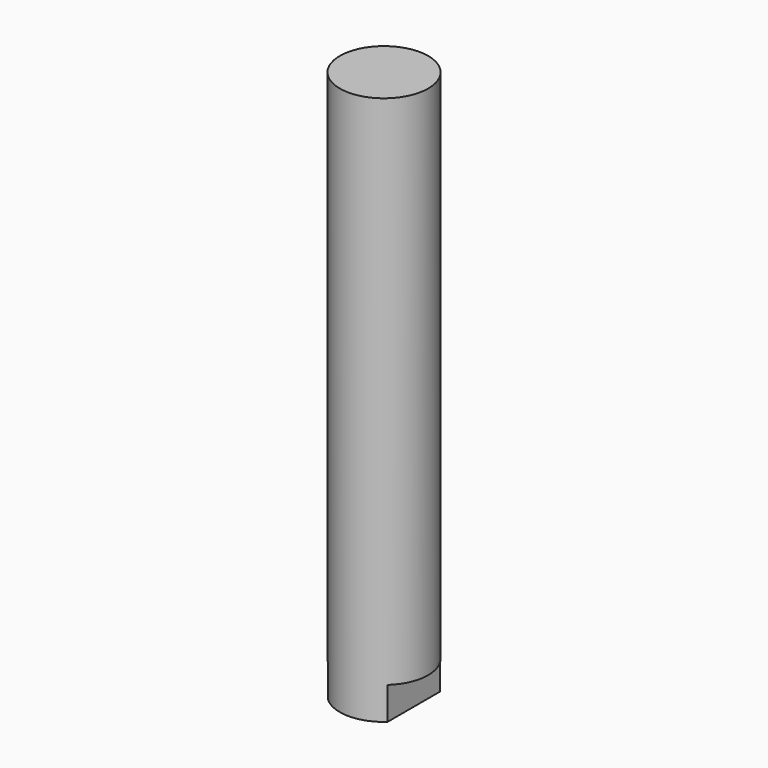
from build123d import *

# Parameters (mm, degrees)
F0_R     = 9.5
F1_DEPTH = 118
F2_W     = 9.514893
F2_H     = 14
F2_W_2   = 10.271802
F3_DEPTH = 12.5
F4_R     = 4.25
F5_DEPTH = 25


with BuildPart() as f1:
    # F0 (on Top) → F1 (new body)
    with BuildSketch(Plane.XY):
        Circle(F0_R)
    extrude(amount=F1_DEPTH)

    # F2 (on Front) → F3 (cut, symmetric)
    with BuildSketch(Plane.XZ):
        with Locations((-11.373281, 0)):
            Rectangle(F2_W, F2_H)
        with Locations((11.520066, 0)):
            Rectangle(F2_W_2, F2_H)
    extrude(amount=F3_DEPTH, both=True, mode=Mode.SUBTRACT)

    # F4 (on face) → F5 (cut)
    with BuildSketch(Plane(origin=(0, 0, 0), x_dir=(1, 0, 0), z_dir=(0, 0, -1))):
        Circle(F4_R)
    extrude(amount=-F5_DEPTH, mode=Mode.SUBTRACT)


solid = f1.part
